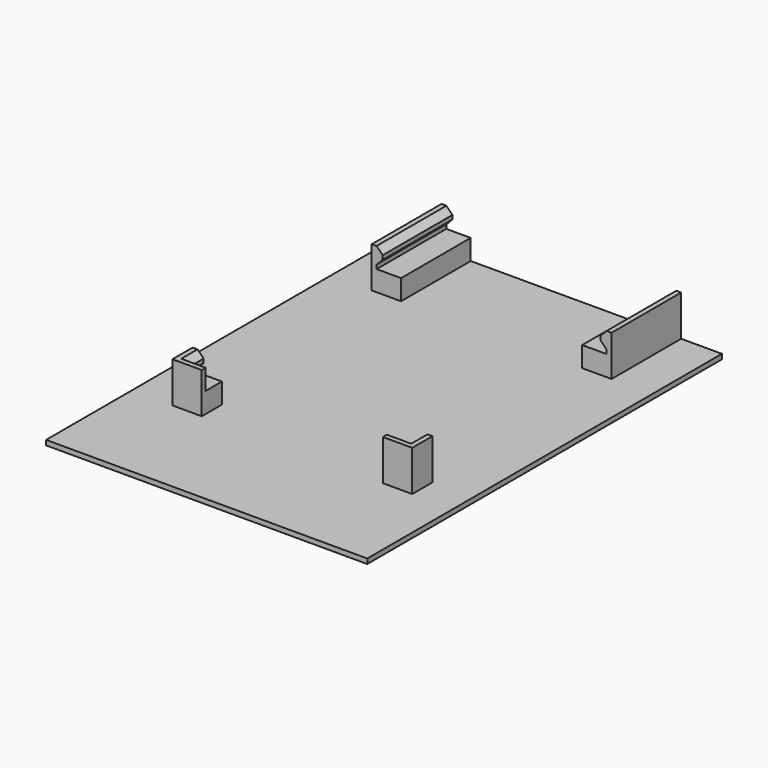
from build123d import *

# Parameters (mm, degrees)
F0_W      = 6
F0_H      = 5
F0_W_2    = 1.2
F1_DEPTH  = 1.2
F2_DEPTH  = 5
F3_DEPTH  = 10
F5_DEPTH  = 65
F6_DEPTH  = 10
F1_FACE_W = 78.9
F1_FACE_H = 1.2
F7_DEPTH  = 16.3
F8_DEPTH  = 16.4


with BuildPart() as f1:
    # F0 (on Top) → F1 (new body)
    with BuildSketch(Plane.XY):
        with Locations((14.2, -2.5)):
            Rectangle(F0_W, F0_H)
        with Locations((10.6, -2.5)):
            Rectangle(F0_W_2, F0_H)
        Polygon((10, 0), (0, 0), (0, -76.2), (78.9, -76.2), (78.9, 0), (68.9, 0), (68.9, -5), (67.7, -5), (61.7, -5), (61.7, 0), (17.2, 0), (17.2, -5), (11.2, -5), (10, -5), align=None)
        Polygon((10, -60), (11.2, -60), (17.2, -60), (17.2, -65), (17.2, -66.2), (10, -66.2), align=None, mode=Mode.SUBTRACT)
        Polygon((61.7, -65), (61.7, -60), (67.7, -60), (68.9, -60), (68.9, -66.2), (61.7, -66.2), align=None, mode=Mode.SUBTRACT)
        with Locations((64.7, -2.5)):
            Rectangle(F0_W, F0_H)
        with Locations((68.3, -2.5)):
            Rectangle(F0_W_2, F0_H)
        with Locations((64.7, -62.5)):
            Rectangle(F0_W, F0_H)
        Polygon((68.9, -60), (67.7, -60), (67.7, -65), (61.7, -65), (61.7, -66.2), (68.9, -66.2), align=None)
        with Locations((14.2, -62.5)):
            Rectangle(F0_W, F0_H)
        Polygon((11.2, -65), (11.2, -60), (10, -60), (10, -66.2), (17.2, -66.2), (17.2, -65), align=None)
    extrude(amount=-F1_DEPTH)

    # F0 (on Top) → F2 (join)
    with BuildSketch(Plane.XY):
        with Locations((14.2, -2.5)):
            Rectangle(F0_W, F0_H)
        with Locations((14.2, -62.5)):
            Rectangle(F0_W, F0_H)
        with Locations((64.7, -2.5)):
            Rectangle(F0_W, F0_H)
        with Locations((64.7, -62.5)):
            Rectangle(F0_W, F0_H)
    extrude(amount=F2_DEPTH)

    # F0 (on Top) → F3 (join)
    with BuildSketch(Plane.XY):
        Polygon((11.2, -65), (11.2, -60), (10, -60), (10, -66.2), (17.2, -66.2), (17.2, -65), align=None)
        Polygon((68.9, -60), (67.7, -60), (67.7, -65), (61.7, -65), (61.7, -66.2), (68.9, -66.2), align=None)
        with Locations((68.3, -2.5)):
            Rectangle(F0_W_2, F0_H)
        with Locations((10.6, -2.5)):
            Rectangle(F0_W_2, F0_H)
    extrude(amount=F3_DEPTH)

    # F4 (on face) → F5 (join, through all)
    with BuildSketch(Plane(origin=(0, 0, 0), x_dir=(-1, 0, 0), z_dir=(0, 1, 0))):
        Polygon((-11.2, 6), (-11.2, 10), (-12.7, 8.5), (-12.7, 7.5), align=None)
        Polygon((-66.2, 7.5), (-66.2, 8.5), (-67.7, 10), (-67.7, 6), align=None)
    extrude(amount=-F5_DEPTH)

    # F0 (on Top) → F6 (cut, through all)
    with BuildSketch(Plane.XY):
        Polygon((10, 0), (0, 0), (0, -76.2), (78.9, -76.2), (78.9, 0), (68.9, 0), (68.9, -5), (67.7, -5), (61.7, -5), (61.7, 0), (17.2, 0), (17.2, -5), (11.2, -5), (10, -5), align=None)
        Polygon((10, -60), (11.2, -60), (17.2, -60), (17.2, -65), (17.2, -66.2), (10, -66.2), align=None, mode=Mode.SUBTRACT)
        Polygon((61.7, -65), (61.7, -60), (67.7, -60), (68.9, -60), (68.9, -66.2), (61.7, -66.2), align=None, mode=Mode.SUBTRACT)
    extrude(amount=F6_DEPTH, mode=Mode.SUBTRACT)

    # F1_face (on face) → F7 (join)
    with BuildSketch(Plane(origin=(39.45, -76.2, -0.6), x_dir=(1, 0, 0), z_dir=(0, -1, 0))):
        Rectangle(F1_FACE_W, F1_FACE_H)
    extrude(amount=F7_DEPTH)

    # F5_face (on face) → F8 (join)
    with BuildSketch(Plane(origin=(39.45, 0, 1.467354), x_dir=(-1, 0, 0), z_dir=(0, 1, 0))):
        Polygon((-39.45, -2.667354), (39.45, -2.667354), (39.45, -1.467354), (29.45, -1.467354), (29.45, 8.532646), (28.25, 8.532646), (26.75, 7.032646), (26.75, 6.032646), (28.25, 4.532646), (28.25, 3.532646), (22.25, 3.532646), (22.25, -1.467354), (-22.25, -1.467354), (-22.25, 3.532646), (-28.25, 3.532646), (-28.25, 4.532646), (-26.75, 6.032646), (-26.75, 7.032646), (-28.25, 8.532646), (-29.45, 8.532646), (-29.45, -1.467354), (-39.45, -1.467354), align=None)
    extrude(amount=F8_DEPTH)


solid = f1.part
